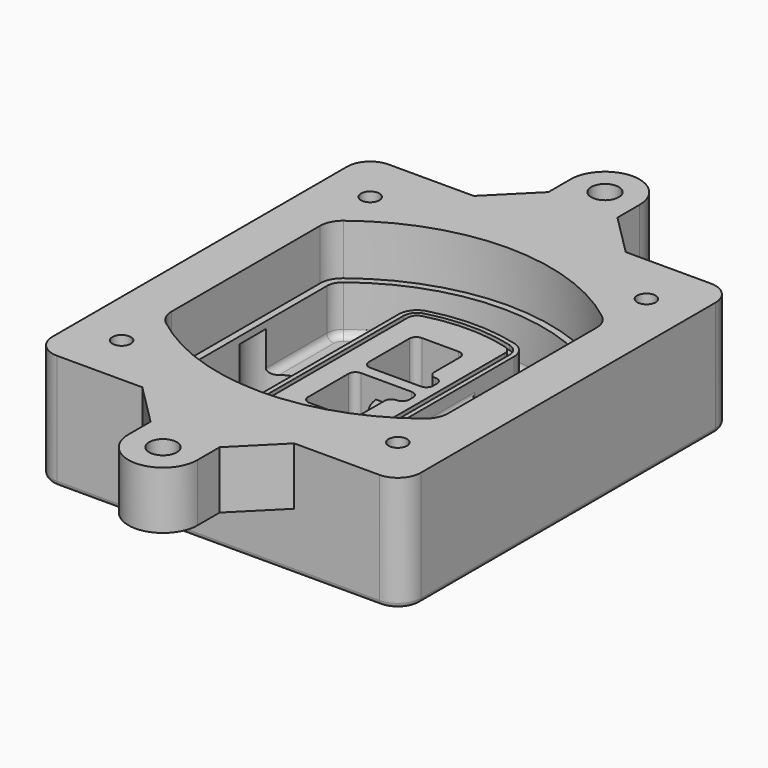
from build123d import *

# Parameters (mm, degrees)
F0_R      = 4
F1_DEPTH  = 25
F2_DEPTH  = 3
F3_DEPTH  = 18
F5_DEPTH  = 21
F6_DEPTH  = 2
F8_DEPTH  = 20
F9_DEPTH  = 16
F10_DEPTH = 25
F7_R      = 6
F7_R_2    = 4
F11_DEPTH = 6
F13_DEPTH = 9
F14_R     = 3
F15_R     = 2
F16_R     = 4
F16_R_2   = 6
F17_DEPTH = 25


with BuildPart() as f1:
    # F0 (on Top) → F1 (new body)
    with BuildSketch(Plane.XY):
        with BuildLine():
            ThreePointArc((-80, -80), (-77.0710678119, -87.0710678119), (-70, -90))
            Line((-70, -90), (70, -90))
            ThreePointArc((70, -90), (77.0710678119, -87.0710678119), (80, -80))
            Line((80, -80), (80, 80))
            ThreePointArc((80, 80), (77.0710678119, 87.0710678119), (70, 90))
            Line((70, 90), (-70, 90))
            ThreePointArc((-70, 90), (-77.0710678119, 87.0710678119), (-80, 80))
            Line((-80, 80), (-80, -80))
        make_face()
        with Locations((-60, -67.5)):
            Circle(F0_R, mode=Mode.SUBTRACT)
        with Locations((60, -67.5)):
            Circle(F0_R, mode=Mode.SUBTRACT)
        with Locations((-60, 67.5)):
            Circle(F0_R, mode=Mode.SUBTRACT)
        with BuildLine():
            ThreePointArc((-64, 40.2934422872), (-62.5820384798, 46.4328484224), (-58.6153846154, 51.3286200352))
            ThreePointArc((-58.6153846154, 51.3286200352), (0, 71.5), (58.6153846154, 51.3286200352))
            ThreePointArc((58.6153846154, 51.3286200352), (62.5820384798, 46.4328484224), (64, 40.2934422872))
            Line((64, 40.2934422872), (64, -40.2934422872))
            ThreePointArc((64, -40.2934422872), (62.5820384798, -46.4328484224), (58.6153846154, -51.3286200352))
            ThreePointArc((58.6153846154, -51.3286200352), (0, -71.5), (-58.6153846154, -51.3286200352))
            ThreePointArc((-58.6153846154, -51.3286200352), (-62.5820384798, -46.4328484224), (-64, -40.2934422872))
            Line((-64, -40.2934422872), (-64, 40.2934422872))
        make_face(mode=Mode.SUBTRACT)
        with Locations((60, 67.5)):
            Circle(F0_R, mode=Mode.SUBTRACT)
        with BuildLine():
            ThreePointArc((58.6153846154, 51.3286200352), (0, 71.5), (-58.6153846154, 51.3286200352))
            ThreePointArc((-58.6153846154, 51.3286200352), (-62.5820384798, 46.4328484224), (-64, 40.2934422872))
            Line((-64, 40.2934422872), (-64, -40.2934422872))
            ThreePointArc((-64, -40.2934422872), (-62.5820384798, -46.4328484224), (-58.6153846154, -51.3286200352))
            ThreePointArc((-58.6153846154, -51.3286200352), (0, -71.5), (58.6153846154, -51.3286200352))
            ThreePointArc((58.6153846154, -51.3286200352), (62.5820384798, -46.4328484224), (64, -40.2934422872))
            Line((64, -40.2934422872), (64, 40.2934422872))
            ThreePointArc((64, 40.2934422872), (62.5820384798, 46.4328484224), (58.6153846154, 51.3286200352))
        make_face()
        with BuildLine():
            Line((-60, -40.2934422872), (-60, 40.2934422872))
            ThreePointArc((-60, 40.2934422872), (-58.9871703427, 44.6787323838), (-56.1538461538, 48.1757121072))
            ThreePointArc((-56.1538461538, 48.1757121072), (0, 67.5), (56.1538461538, 48.1757121072))
            ThreePointArc((56.1538461538, 48.1757121072), (58.9871703427, 44.6787323838), (60, 40.2934422872))
            Line((60, 40.2934422872), (60, -40.2934422872))
            ThreePointArc((60, -40.2934422872), (58.9871703427, -44.6787323838), (56.1538461538, -48.1757121072))
            ThreePointArc((56.1538461538, -48.1757121072), (0, -67.5), (-56.1538461538, -48.1757121072))
            ThreePointArc((-56.1538461538, -48.1757121072), (-58.9871703427, -44.6787323838), (-60, -40.2934422872))
        make_face(mode=Mode.SUBTRACT)
        with BuildLine():
            ThreePointArc((-56.1538461538, 48.1757121072), (-58.9871703427, 44.6787323838), (-60, 40.2934422872))
            Line((-60, 40.2934422872), (-60, -40.2934422872))
            ThreePointArc((-60, -40.2934422872), (-58.9871703427, -44.6787323838), (-56.1538461538, -48.1757121072))
            ThreePointArc((-56.1538461538, -48.1757121072), (0, -67.5), (56.1538461538, -48.1757121072))
            ThreePointArc((56.1538461538, -48.1757121072), (58.9871703427, -44.6787323838), (60, -40.2934422872))
            Line((60, -40.2934422872), (60, 40.2934422872))
            ThreePointArc((60, 40.2934422872), (58.9871703427, 44.6787323838), (56.1538461538, 48.1757121072))
            ThreePointArc((56.1538461538, 48.1757121072), (0, 67.5), (-56.1538461538, 48.1757121072))
        make_face()
        with BuildLine():
            ThreePointArc((54.3076923077, 45.8110311612), (56.2910192399, 43.3631453548), (57, 40.2934422872))
            Line((57, 40.2934422872), (57, -40.2934422872))
            ThreePointArc((57, -40.2934422872), (56.2910192399, -43.3631453548), (54.3076923077, -45.8110311612))
            ThreePointArc((54.3076923077, -45.8110311612), (0, -64.5), (-54.3076923077, -45.8110311612))
            ThreePointArc((-54.3076923077, -45.8110311612), (-56.2910192399, -43.3631453548), (-57, -40.2934422872))
            Line((-57, -40.2934422872), (-57, 40.2934422872))
            ThreePointArc((-57, 40.2934422872), (-56.2910192399, 43.3631453548), (-54.3076923077, 45.8110311612))
            ThreePointArc((-54.3076923077, 45.8110311612), (0, 64.5), (54.3076923077, 45.8110311612))
        make_face(mode=Mode.SUBTRACT)
        with BuildLine():
            Line((57, -40.2934422872), (57, 40.2934422872))
            ThreePointArc((57, 40.2934422872), (56.2910192399, 43.3631453548), (54.3076923077, 45.8110311612))
            ThreePointArc((54.3076923077, 45.8110311612), (0, 64.5), (-54.3076923077, 45.8110311612))
            ThreePointArc((-54.3076923077, 45.8110311612), (-56.2910192399, 43.3631453548), (-57, 40.2934422872))
            Line((-57, 40.2934422872), (-57, -40.2934422872))
            ThreePointArc((-57, -40.2934422872), (-56.2910192399, -43.3631453548), (-54.3076923077, -45.8110311612))
            ThreePointArc((-54.3076923077, -45.8110311612), (0, -64.5), (54.3076923077, -45.8110311612))
            ThreePointArc((54.3076923077, -45.8110311612), (56.2910192399, -43.3631453548), (57, -40.2934422872))
        make_face()
    extrude(amount=-F1_DEPTH)

    # F0 (on Top) → F2 (join)
    with BuildSketch(Plane.XY):
        with BuildLine():
            ThreePointArc((-56.1538461538, 48.1757121072), (-58.9871703427, 44.6787323838), (-60, 40.2934422872))
            Line((-60, 40.2934422872), (-60, -40.2934422872))
            ThreePointArc((-60, -40.2934422872), (-58.9871703427, -44.6787323838), (-56.1538461538, -48.1757121072))
            ThreePointArc((-56.1538461538, -48.1757121072), (0, -67.5), (56.1538461538, -48.1757121072))
            ThreePointArc((56.1538461538, -48.1757121072), (58.9871703427, -44.6787323838), (60, -40.2934422872))
            Line((60, -40.2934422872), (60, 40.2934422872))
            ThreePointArc((60, 40.2934422872), (58.9871703427, 44.6787323838), (56.1538461538, 48.1757121072))
            ThreePointArc((56.1538461538, 48.1757121072), (0, 67.5), (-56.1538461538, 48.1757121072))
        make_face()
        with BuildLine():
            ThreePointArc((54.3076923077, 45.8110311612), (56.2910192399, 43.3631453548), (57, 40.2934422872))
            Line((57, 40.2934422872), (57, -40.2934422872))
            ThreePointArc((57, -40.2934422872), (56.2910192399, -43.3631453548), (54.3076923077, -45.8110311612))
            ThreePointArc((54.3076923077, -45.8110311612), (0, -64.5), (-54.3076923077, -45.8110311612))
            ThreePointArc((-54.3076923077, -45.8110311612), (-56.2910192399, -43.3631453548), (-57, -40.2934422872))
            Line((-57, -40.2934422872), (-57, 40.2934422872))
            ThreePointArc((-57, 40.2934422872), (-56.2910192399, 43.3631453548), (-54.3076923077, 45.8110311612))
            ThreePointArc((-54.3076923077, 45.8110311612), (0, 64.5), (54.3076923077, 45.8110311612))
        make_face(mode=Mode.SUBTRACT)
    extrude(amount=F2_DEPTH)

    # F0 (on Top) → F3 (cut)
    with BuildSketch(Plane.XY):
        with BuildLine():
            Line((57, -40.2934422872), (57, 40.2934422872))
            ThreePointArc((57, 40.2934422872), (56.2910192399, 43.3631453548), (54.3076923077, 45.8110311612))
            ThreePointArc((54.3076923077, 45.8110311612), (0, 64.5), (-54.3076923077, 45.8110311612))
            ThreePointArc((-54.3076923077, 45.8110311612), (-56.2910192399, 43.3631453548), (-57, 40.2934422872))
            Line((-57, 40.2934422872), (-57, -40.2934422872))
            ThreePointArc((-57, -40.2934422872), (-56.2910192399, -43.3631453548), (-54.3076923077, -45.8110311612))
            ThreePointArc((-54.3076923077, -45.8110311612), (0, -64.5), (54.3076923077, -45.8110311612))
            ThreePointArc((54.3076923077, -45.8110311612), (56.2910192399, -43.3631453548), (57, -40.2934422872))
        make_face()
    extrude(amount=-F3_DEPTH, mode=Mode.SUBTRACT)

    # F4 (on face) → F5 (join, through all)
    with BuildSketch(Plane.XY.offset(3)):
        with BuildLine():
            ThreePointArc((-25, -39.2465276821), (-23.3511545998, -44.1109737193), (-19.0842911877, -46.9702398883))
            ThreePointArc((-19.0842911877, -46.9702398883), (0, -49.5), (19.0842911877, -46.9702398883))
            ThreePointArc((19.0842911877, -46.9702398883), (23.3511545998, -44.1109737193), (25, -39.2465276821))
            Line((25, -39.2465276821), (25, 39.2465276821))
            ThreePointArc((25, 39.2465276821), (23.3511545998, 44.1109737193), (19.0842911877, 46.9702398883))
            ThreePointArc((19.0842911877, 46.9702398883), (0, 49.5), (-19.0842911877, 46.9702398883))
            ThreePointArc((-19.0842911877, 46.9702398883), (-23.3511545998, 44.1109737193), (-25, 39.2465276821))
            Line((-25, 39.2465276821), (-25, -39.2465276821))
        make_face()
        with BuildLine():
            ThreePointArc((18.5632183908, 45.0393118368), (21.7633659499, 42.89486221), (23, 39.2465276821))
            Line((23, 39.2465276821), (23, -39.2465276821))
            ThreePointArc((23, -39.2465276821), (21.7633659499, -42.89486221), (18.5632183908, -45.0393118368))
            ThreePointArc((18.5632183908, -45.0393118368), (0, -47.5), (-18.5632183908, -45.0393118368))
            ThreePointArc((-18.5632183908, -45.0393118368), (-21.7633659499, -42.89486221), (-23, -39.2465276821))
            Line((-23, -39.2465276821), (-23, 39.2465276821))
            ThreePointArc((-23, 39.2465276821), (-21.7633659499, 42.89486221), (-18.5632183908, 45.0393118368))
            ThreePointArc((-18.5632183908, 45.0393118368), (0, 47.5), (18.5632183908, 45.0393118368))
        make_face(mode=Mode.SUBTRACT)
        with BuildLine():
            Line((23, -39.2465276821), (23, 39.2465276821))
            ThreePointArc((23, 39.2465276821), (21.7633659499, 42.89486221), (18.5632183908, 45.0393118368))
            ThreePointArc((18.5632183908, 45.0393118368), (0, 47.5), (-18.5632183908, 45.0393118368))
            ThreePointArc((-18.5632183908, 45.0393118368), (-21.7633659499, 42.89486221), (-23, 39.2465276821))
            Line((-23, 39.2465276821), (-23, -39.2465276821))
            ThreePointArc((-23, -39.2465276821), (-21.7633659499, -42.89486221), (-18.5632183908, -45.0393118368))
            ThreePointArc((-18.5632183908, -45.0393118368), (0, -47.5), (18.5632183908, -45.0393118368))
            ThreePointArc((18.5632183908, -45.0393118368), (21.7633659499, -42.89486221), (23, -39.2465276821))
        make_face()
        with BuildLine():
            ThreePointArc((18.0421455939, 43.1083837852), (20.1755772999, 41.6787507007), (21, 39.2465276821))
            Line((21, 39.2465276821), (21, -39.2465276821))
            ThreePointArc((21, -39.2465276821), (20.1755772999, -41.6787507007), (18.0421455939, -43.1083837852))
            ThreePointArc((18.0421455939, -43.1083837852), (0, -45.5), (-18.0421455939, -43.1083837852))
            ThreePointArc((-18.0421455939, -43.1083837852), (-20.1755772999, -41.6787507007), (-21, -39.2465276821))
            Line((-21, -39.2465276821), (-21, 39.2465276821))
            ThreePointArc((-21, 39.2465276821), (-20.1755772999, 41.6787507007), (-18.0421455939, 43.1083837852))
            ThreePointArc((-18.0421455939, 43.1083837852), (0, 45.5), (18.0421455939, 43.1083837852))
        make_face(mode=Mode.SUBTRACT)
        with BuildLine():
            Line((21, -39.2465276821), (21, 39.2465276821))
            ThreePointArc((21, 39.2465276821), (20.1755772999, 41.6787507007), (18.0421455939, 43.1083837852))
            ThreePointArc((18.0421455939, 43.1083837852), (0, 45.5), (-18.0421455939, 43.1083837852))
            ThreePointArc((-18.0421455939, 43.1083837852), (-20.1755772999, 41.6787507007), (-21, 39.2465276821))
            Line((-21, 39.2465276821), (-21, -39.2465276821))
            ThreePointArc((-21, -39.2465276821), (-20.1755772999, -41.6787507007), (-18.0421455939, -43.1083837852))
            ThreePointArc((-18.0421455939, -43.1083837852), (0, -45.5), (18.0421455939, -43.1083837852))
            ThreePointArc((18.0421455939, -43.1083837852), (20.1755772999, -41.6787507007), (21, -39.2465276821))
        make_face()
        with BuildLine():
            Line((-8, -2.5), (14, -2.5))
            ThreePointArc((14, -2.5), (16.1213203436, -3.3786796564), (17, -5.5))
            Line((17, -5.5), (17, -7.5))
            ThreePointArc((17, -7.5), (16.1213203436, -9.6213203436), (14, -10.5))
            ThreePointArc((14, -10.5), (11.8786796564, -11.3786796564), (11, -13.5))
            Line((11, -13.5), (11, -27.5))
            ThreePointArc((11, -27.5), (10.1213203436, -29.6213203436), (8, -30.5))
            Line((8, -30.5), (-8, -30.5))
            ThreePointArc((-8, -30.5), (-10.1213203436, -29.6213203436), (-11, -27.5))
            Line((-11, -27.5), (-11, -5.5))
            ThreePointArc((-11, -5.5), (-10.1213203436, -3.3786796564), (-8, -2.5))
        make_face(mode=Mode.SUBTRACT)
        with BuildLine():
            ThreePointArc((-8, 2.5), (-10.1213203436, 3.3786796564), (-11, 5.5))
            Line((-11, 5.5), (-11, 27.5))
            ThreePointArc((-11, 27.5), (-10.1213203436, 29.6213203436), (-8, 30.5))
            Line((-8, 30.5), (8, 30.5))
            ThreePointArc((8, 30.5), (10.1213203436, 29.6213203436), (11, 27.5))
            Line((11, 27.5), (11, 13.5))
            ThreePointArc((11, 13.5), (11.8786796564, 11.3786796564), (14, 10.5))
            ThreePointArc((14, 10.5), (16.1213203436, 9.6213203436), (17, 7.5))
            Line((17, 7.5), (17, 5.5))
            ThreePointArc((17, 5.5), (16.1213203436, 3.3786796564), (14, 2.5))
            Line((14, 2.5), (-8, 2.5))
        make_face(mode=Mode.SUBTRACT)
    extrude(amount=-F5_DEPTH)

    # F4 (on face) → F6 (cut)
    with BuildSketch(Plane.XY.offset(3)):
        with BuildLine():
            Line((23, -39.2465276821), (23, 39.2465276821))
            ThreePointArc((23, 39.2465276821), (21.7633659499, 42.89486221), (18.5632183908, 45.0393118368))
            ThreePointArc((18.5632183908, 45.0393118368), (0, 47.5), (-18.5632183908, 45.0393118368))
            ThreePointArc((-18.5632183908, 45.0393118368), (-21.7633659499, 42.89486221), (-23, 39.2465276821))
            Line((-23, 39.2465276821), (-23, -39.2465276821))
            ThreePointArc((-23, -39.2465276821), (-21.7633659499, -42.89486221), (-18.5632183908, -45.0393118368))
            ThreePointArc((-18.5632183908, -45.0393118368), (0, -47.5), (18.5632183908, -45.0393118368))
            ThreePointArc((18.5632183908, -45.0393118368), (21.7633659499, -42.89486221), (23, -39.2465276821))
        make_face()
        with BuildLine():
            ThreePointArc((18.0421455939, 43.1083837852), (20.1755772999, 41.6787507007), (21, 39.2465276821))
            Line((21, 39.2465276821), (21, -39.2465276821))
            ThreePointArc((21, -39.2465276821), (20.1755772999, -41.6787507007), (18.0421455939, -43.1083837852))
            ThreePointArc((18.0421455939, -43.1083837852), (0, -45.5), (-18.0421455939, -43.1083837852))
            ThreePointArc((-18.0421455939, -43.1083837852), (-20.1755772999, -41.6787507007), (-21, -39.2465276821))
            Line((-21, -39.2465276821), (-21, 39.2465276821))
            ThreePointArc((-21, 39.2465276821), (-20.1755772999, 41.6787507007), (-18.0421455939, 43.1083837852))
            ThreePointArc((-18.0421455939, 43.1083837852), (0, 45.5), (18.0421455939, 43.1083837852))
        make_face(mode=Mode.SUBTRACT)
    extrude(amount=-F6_DEPTH, mode=Mode.SUBTRACT)

    # F7 (on face) → F8 (join)
    with BuildSketch(Plane(origin=(0, 0, -25), x_dir=(1, 0, 0), z_dir=(0, 0, -1))):
        with BuildLine():
            ThreePointArc((3.28842436, 0), (16.7567035675, 13.4682792075), (30.224982775, 0))
            Line((30.224982775, 0), (35.224982775, 0))
            ThreePointArc((35.224982775, 0), (16.7567035675, 18.4682792075), (-1.71157564, 0))
            Line((-1.71157564, 0), (3.28842436, 0))
        make_face()
        with BuildLine():
            Line((3.28842436, 0), (30.224982775, 0))
            ThreePointArc((30.224982775, 0), (16.7567035675, 13.4682792075), (3.28842436, 0))
        make_face()
        with BuildLine():
            ThreePointArc((3.28842436, 0), (16.7567035675, -13.4682792075), (30.224982775, 0))
            Line((30.224982775, 0), (3.28842436, 0))
        make_face()
        with BuildLine():
            Line((35.224982775, 0), (30.224982775, 0))
            ThreePointArc((30.224982775, 0), (16.7567035675, -13.4682792075), (3.28842436, 0))
            Line((3.28842436, 0), (-1.71157564, 0))
            ThreePointArc((-1.71157564, 0), (16.7567035675, -18.4682792075), (35.224982775, 0))
        make_face()
    extrude(amount=-F8_DEPTH)

    # F7 (on face) → F9 (cut)
    with BuildSketch(Plane(origin=(0, 0, -25), x_dir=(1, 0, 0), z_dir=(0, 0, -1))):
        with BuildLine():
            Line((3.28842436, 0), (30.224982775, 0))
            ThreePointArc((30.224982775, 0), (16.7567035675, 13.4682792075), (3.28842436, 0))
        make_face()
        with BuildLine():
            ThreePointArc((3.28842436, 0), (16.7567035675, -13.4682792075), (30.224982775, 0))
            Line((30.224982775, 0), (3.28842436, 0))
        make_face()
    extrude(amount=-F9_DEPTH, mode=Mode.SUBTRACT)

    # F7 (on face) → F10 (cut)
    with BuildSketch(Plane(origin=(0, 0, -25), x_dir=(1, 0, 0), z_dir=(0, 0, -1))):
        with BuildLine():
            Line((-59.0318229325, 0), (-32.0952645175, 0))
            ThreePointArc((-32.0952645175, 0), (-45.563543725, 13.4682792075), (-59.0318229325, 0))
        make_face()
        with BuildLine():
            ThreePointArc((-59.0318229325, 0), (-45.563543725, -13.4682792075), (-32.0952645175, 0))
            Line((-32.0952645175, 0), (-59.0318229325, 0))
        make_face()
    extrude(amount=-F10_DEPTH, mode=Mode.SUBTRACT)

    # F7 (on face) → F11 (cut)
    with BuildSketch(Plane(origin=(0, 0, -25), x_dir=(1, 0, 0), z_dir=(0, 0, -1))):
        with Locations((60, -67.5)):
            Circle(F7_R)
        with Locations((60, -67.5)):
            Circle(F7_R_2, mode=Mode.SUBTRACT)
        with Locations((60, -67.5)):
            Circle(F7_R)
        with Locations((60, -67.5)):
            Circle(F7_R_2, mode=Mode.SUBTRACT)
        with Locations((-60, -67.5)):
            Circle(F7_R)
        with Locations((-60, -67.5)):
            Circle(F7_R_2, mode=Mode.SUBTRACT)
        with Locations((-60, -67.5)):
            Circle(F7_R)
        with Locations((-60, -67.5)):
            Circle(F7_R_2, mode=Mode.SUBTRACT)
        with Locations((-60, 67.5)):
            Circle(F7_R)
        with Locations((-60, 67.5)):
            Circle(F7_R_2, mode=Mode.SUBTRACT)
        with Locations((-60, 67.5)):
            Circle(F7_R)
        with Locations((-60, 67.5)):
            Circle(F7_R_2, mode=Mode.SUBTRACT)
        with Locations((60, 67.5)):
            Circle(F7_R)
        with Locations((60, 67.5)):
            Circle(F7_R_2, mode=Mode.SUBTRACT)
        with Locations((60, 67.5)):
            Circle(F7_R)
        with Locations((60, 67.5)):
            Circle(F7_R_2, mode=Mode.SUBTRACT)
    extrude(amount=-F11_DEPTH, mode=Mode.SUBTRACT)

    # F12 (on face) → F13 (cut, through all)
    with BuildSketch(Plane(origin=(0, 0, -9), x_dir=(1, 0, 0), z_dir=(0, 0, -1))):
        with BuildLine():
            Line((11, 13.5), (11, 17.5481537753))
            ThreePointArc((11, 17.5481537753), (2.5696536419, 11.8239143813), (-1.5415842455, 2.5))
            Line((-1.5415842455, 2.5), (3.5224848595, 2.5))
            ThreePointArc((3.5224848595, 2.5), (6.1857188154, 8.3455872281), (11.2536447004, 12.2927168648))
            ThreePointArc((11.2536447004, 12.2927168648), (11.0640958889, 12.8831798879), (11, 13.5))
        make_face()
        with BuildLine():
            ThreePointArc((11.2536447004, -12.2927168648), (6.1857188154, -8.3455872281), (3.5224848595, -2.5))
            Line((3.5224848595, -2.5), (-1.5415842455, -2.5))
            ThreePointArc((-1.5415842455, -2.5), (2.5696536419, -11.8239143813), (11, -17.5481537753))
            Line((11, -17.5481537753), (11, -13.5))
            ThreePointArc((11, -13.5), (11.0640958889, -12.8831798879), (11.2536447004, -12.2927168648))
        make_face()
        with BuildLine():
            ThreePointArc((11.2536447004, 12.2927168648), (6.1857188154, 8.3455872281), (3.5224848595, 2.5))
            Line((3.5224848595, 2.5), (14, 2.5))
            ThreePointArc((14, 2.5), (16.1213203436, 3.3786796564), (17, 5.5))
            Line((17, 5.5), (17, 7.5))
            ThreePointArc((17, 7.5), (16.1213203436, 9.6213203436), (14, 10.5))
            ThreePointArc((14, 10.5), (12.3601599782, 10.9878446101), (11.2536447004, 12.2927168648))
        make_face()
        with BuildLine():
            Line((14, -2.5), (3.5224848595, -2.5))
            ThreePointArc((3.5224848595, -2.5), (6.1857188154, -8.3455872281), (11.2536447004, -12.2927168648))
            ThreePointArc((11.2536447004, -12.2927168648), (12.3601599782, -10.9878446101), (14, -10.5))
            ThreePointArc((14, -10.5), (16.1213203436, -9.6213203436), (17, -7.5))
            Line((17, -7.5), (17, -5.5))
            ThreePointArc((17, -5.5), (16.1213203436, -3.3786796564), (14, -2.5))
        make_face()
    extrude(amount=F13_DEPTH, mode=Mode.SUBTRACT)

    # F14
    f14_edges = [f1.edges().sort_by_distance(p)[0] for p in [
        (-57, -23.703476, -18),
        (-57, 23.703476, -18),
        (25, 0, -5),
        (25, 16.526506, -11.5),
        (25, -16.526506, -11.5),
        (25, -27.886517, -18),
        (35.224983, 0, -18),
    ]]
    fillet(f14_edges, radius=F14_R)

    # F15
    f15_edges = [f1.edges().sort_by_distance(p)[0] for p in [
        (0, -90, -25),
    ]]
    fillet(f15_edges, radius=F15_R)

    # F16 (on face) → F17 (join)
    with BuildSketch(Plane.XY):
        with BuildLine():
            Line((-60, 0), (-80, 0))
            Line((-80, 0), (-80, -80))
            ThreePointArc((-80, -80), (-77.0710678119, -87.0710678119), (-70, -90))
            Line((-70, -90), (-33, -90))
            Line((-33, -90), (33, -90))
            Line((33, -90), (70, -90))
            ThreePointArc((70, -90), (77.0710678119, -87.0710678119), (80, -80))
            Line((80, -80), (80, 0))
            Line((80, 0), (60, 0))
            Line((60, 0), (60, -40.2934422872))
            ThreePointArc((60, -40.2934422872), (58.9871703427, -44.6787323838), (56.1538461538, -48.1757121072))
            ThreePointArc((56.1538461538, -48.1757121072), (0, -67.5), (-56.1538461538, -48.1757121072))
            ThreePointArc((-56.1538461538, -48.1757121072), (-58.9871703427, -44.6787323838), (-60, -40.2934422872))
            Line((-60, -40.2934422872), (-60, 0))
        make_face()
        with Locations((-60, -67.5)):
            Circle(F16_R, mode=Mode.SUBTRACT)
        with Locations((60, -67.5)):
            Circle(F16_R, mode=Mode.SUBTRACT)
        with BuildLine():
            Line((33, 90), (-33, 90))
            Line((-33, 90), (-70, 90))
            ThreePointArc((-70, 90), (-77.0710678119, 87.0710678119), (-80, 80))
            Line((-80, 80), (-80, 0))
            Line((-80, 0), (-60, 0))
            Line((-60, 0), (-60, 40.2934422872))
            ThreePointArc((-60, 40.2934422872), (-58.9871703427, 44.6787323838), (-56.1538461538, 48.1757121072))
            ThreePointArc((-56.1538461538, 48.1757121072), (0, 67.5), (56.1538461538, 48.1757121072))
            ThreePointArc((56.1538461538, 48.1757121072), (58.9871703427, 44.6787323838), (60, 40.2934422872))
            Line((60, 40.2934422872), (60, 0))
            Line((60, 0), (80, 0))
            Line((80, 0), (80, 80))
            ThreePointArc((80, 80), (77.0710678119, 87.0710678119), (70, 90))
            Line((70, 90), (33, 90))
        make_face()
        with Locations((-60, 67.5)):
            Circle(F16_R, mode=Mode.SUBTRACT)
        with Locations((60, 67.5)):
            Circle(F16_R, mode=Mode.SUBTRACT)
        with BuildLine():
            Line((-15, 108), (-33, 90))
            Line((-33, 90), (33, 90))
            Line((33, 90), (15, 108))
            Line((15, 108), (15, 120))
            ThreePointArc((15, 120), (0, 135), (-15, 120))
            Line((-15, 120), (-15, 108))
        make_face()
        with Locations((0, 120)):
            Circle(F16_R_2, mode=Mode.SUBTRACT)
        with BuildLine():
            Line((33, -90), (-33, -90))
            Line((-33, -90), (-15, -108))
            Line((-15, -108), (-15, -120))
            ThreePointArc((-15, -120), (0, -135), (15, -120))
            Line((15, -120), (15, -108))
            Line((15, -108), (33, -90))
        make_face()
        with Locations((0, -120)):
            Circle(F16_R_2, mode=Mode.SUBTRACT)
    extrude(amount=F17_DEPTH)


solid = f1.part
